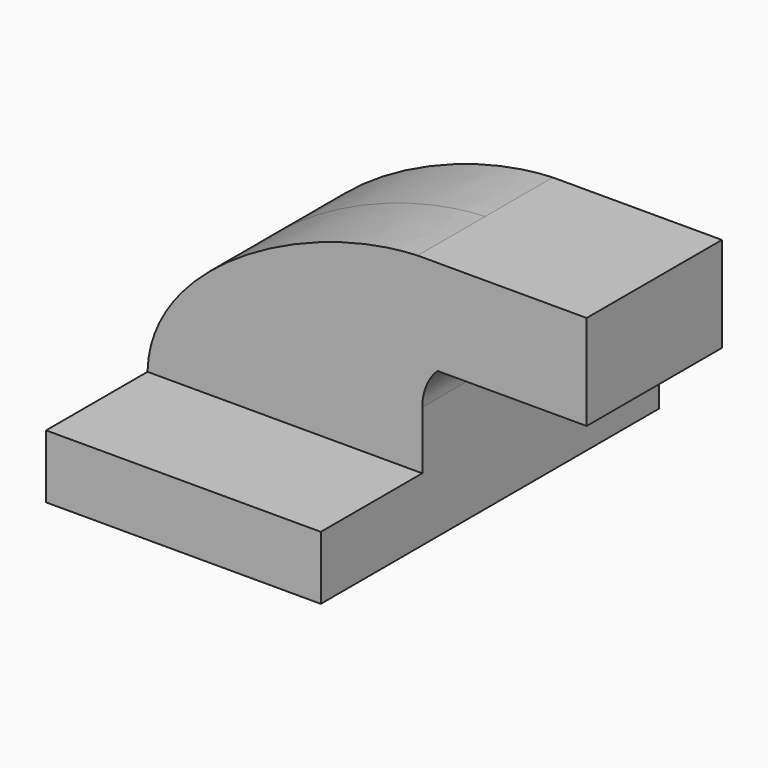
from build123d import *

# Parameters (mm, degrees)
F1_DEPTH = 63.5
F2_DEPTH = 25.4


with BuildPart() as f1:
    # F0 (on Front) → F1 (new body, symmetric)
    with BuildSketch(Plane.XZ):
        Polygon((22.225, 9.525), (-41.275, 9.525), (-41.275, -9.525), (41.275, -9.525), (41.275, 9.525), align=None)
    extrude(amount=F1_DEPTH, both=True)

    # F0 (on Front) → F2 (join, symmetric)
    with BuildSketch(Plane.XZ):
        with BuildLine():
            add(Edge.make_bspline(
                [(-41.275, 9.525), (-40.6438149512, 40.3885282576), (6.5230778418, 65.481133759), (39.8732067838, 66.675)],
                knots=[0, 0, 0, 0, 99.2529796239, 99.2529796239, 99.2529796239, 99.2529796239], degree=3))
            Line((-41.275, 9.525), (22.225, 9.525))
            Line((22.225, 9.525), (22.225, 27.0002))
            ThreePointArc((22.225, 27.0002), (26.9577192972, 44.5553078311), (39.8732067838, 57.352597618))
            Line((39.8732067838, 57.352597618), (39.8732067838, 66.675))
        make_face()
        Polygon((22.225, 9.525), (-41.275, 9.525), (-41.275, -9.525), (41.275, -9.525), (41.275, 9.525), align=None)
        with BuildLine():
            Line((22.225, 27.0002), (22.225, 9.525))
            Line((22.225, 9.525), (41.275, 9.525))
            Line((41.275, 9.525), (41.275, 27.0002))
            ThreePointArc((41.275, 27.0002), (42.4498609109, 32.9936577466), (45.8005478123, 38.1))
            Line((45.8005478123, 38.1), (39.8732067838, 38.1))
            Line((39.8732067838, 38.1), (39.8732067838, 57.352597618))
            ThreePointArc((39.8732067838, 57.352597618), (26.9577192972, 44.5553078311), (22.225, 27.0002))
        make_face()
        with BuildLine():
            Line((90.6732067838, 66.675), (39.8732067838, 66.675))
            Line((39.8732067838, 66.675), (39.8732067838, 57.352597618))
            ThreePointArc((39.8732067838, 57.352597618), (48.2141693674, 60.7627022163), (57.15, 61.9252))
            Line((57.15, 61.9252), (85.725, 61.9252))
            Line((85.725, 61.9252), (85.725, 42.8752))
            Line((85.725, 42.8752), (57.15, 42.8752))
            ThreePointArc((57.15, 42.8752), (50.9934465811, 41.6327826497), (45.8005478123, 38.1))
            Line((45.8005478123, 38.1), (90.6732067838, 38.1))
            Line((90.6732067838, 38.1), (90.6732067838, 66.675))
        make_face()
        with BuildLine():
            ThreePointArc((57.15, 61.9252), (48.2141693674, 60.7627022163), (39.8732067838, 57.352597618))
            Line((39.8732067838, 57.352597618), (39.8732067838, 38.1))
            Line((39.8732067838, 38.1), (45.8005478123, 38.1))
            ThreePointArc((45.8005478123, 38.1), (50.9934465811, 41.6327826497), (57.15, 42.8752))
            Line((57.15, 42.8752), (85.725, 42.8752))
            Line((85.725, 42.8752), (85.725, 61.9252))
            Line((85.725, 61.9252), (57.15, 61.9252))
        make_face()
    extrude(amount=F2_DEPTH, both=True)


solid = f1.part
